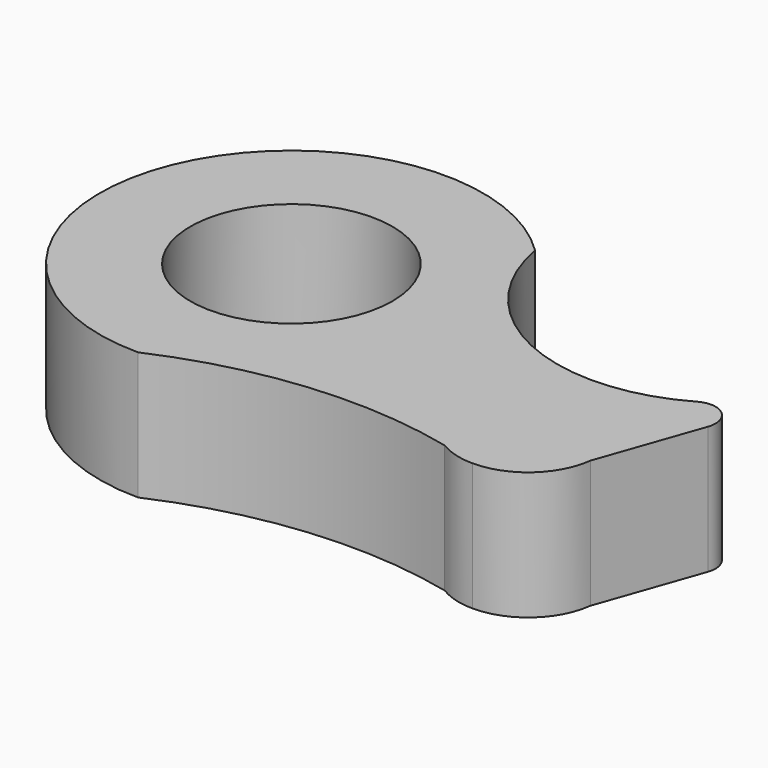
from build123d import *

# Parameters (mm, degrees)
F0_R     = 20.091447
F1_DEPTH = 25.4


with BuildPart() as f1:
    # F0 (on Top) → F1 (new body)
    with BuildSketch(Plane.XY):
        with BuildLine():
            ThreePointArc((78.119229, 3.16254), (46.20116, 1.853494), (26.713748, 27.165892))
            ThreePointArc((26.713748, 27.165892), (-35.260676, 14.43242), (0, -38.1))
            ThreePointArc((0, -38.1), (27.921411, -30.791494), (56.714284, -32.78896))
            ThreePointArc((56.714284, -32.78896), (60.321561, -33.720822), (63.88674, -34.802633))
            ThreePointArc((63.88674, -34.802633), (73.027903, -31.334338), (77.567758, -22.67526))
            Line((77.567758, -22.67526), (84.701062, -2.319822))
            ThreePointArc((84.701062, -2.319822), (83.312466, 2.705184), (78.119229, 3.16254))
        make_face()
        Circle(F0_R, mode=Mode.SUBTRACT)
        with BuildLine():
            ThreePointArc((63.88674, -34.802633), (60.321561, -33.720822), (56.714284, -32.78896))
            ThreePointArc((56.714284, -32.78896), (60.161857, -34.289667), (63.88674, -34.802633))
        make_face()
    extrude(amount=F1_DEPTH)


solid = f1.part
